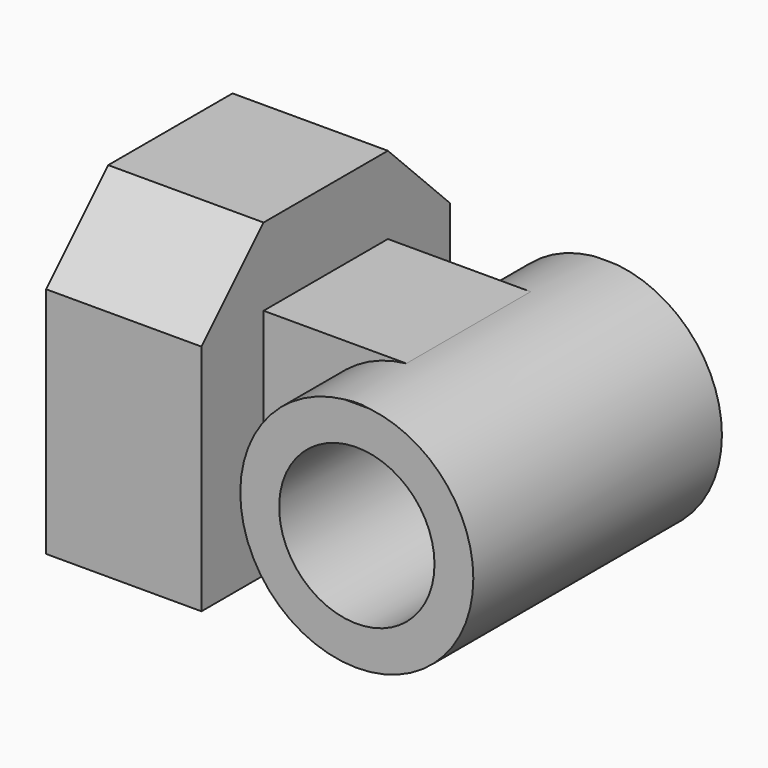
from build123d import *

# Parameters (mm, degrees)
F0_R     = 9.525
F1_DEPTH = 12.7
F3_DEPTH = 6.35
F4_W     = 25.4
F4_H     = 25.4
F5_DEPTH = 12.7
F7_DEPTH = 34.926
F8_R     = 6.35
F9_DEPTH = 25.401


with BuildPart() as f1:
    # F0 (on Front) → F1 (new body, symmetric)
    with BuildSketch(Plane.XZ):
        Circle(F0_R)
    extrude(amount=F1_DEPTH, both=True)

    # F2 (on Front) → F3 (join, symmetric)
    with BuildSketch(Plane.XZ):
        with BuildLine():
            ThreePointArc((0, -9.581195), (-9.525, -0.056195), (0, 9.468805))
            Line((0, 9.468805), (-12.7, 9.468805))
            Line((-12.7, 9.468805), (-12.7, -9.581195))
            Line((-12.7, -9.581195), (0, -9.581195))
        make_face()
    extrude(amount=F3_DEPTH, both=True)

    # F4 (on face) → F5 (join)
    with BuildSketch(Plane(origin=(-12.7, 0, 0), x_dir=(0, -1, 0), z_dir=(-1, 0, 0))):
        with Locations((0, 3.118805)):
            Rectangle(F4_W, F4_H)
    extrude(amount=F5_DEPTH)

    # F6 (on face) → F7 (cut, through all)
    with BuildSketch(Plane(origin=(-25.4, 0, 0), x_dir=(0, -1, 0), z_dir=(-1, 0, 0))):
        Polygon((-6.35, 15.818805), (-12.7, 15.818805), (-12.7, 9.468805), align=None)
        Polygon((12.7, 9.468805), (12.7, 15.818805), (6.35, 15.818805), align=None)
    extrude(amount=-F7_DEPTH, mode=Mode.SUBTRACT)

    # F8 (on face) → F9 (cut, through all)
    with BuildSketch(Plane.XZ.offset(12.7)):
        Circle(F8_R)
    extrude(amount=-F9_DEPTH, mode=Mode.SUBTRACT)


solid = f1.part
